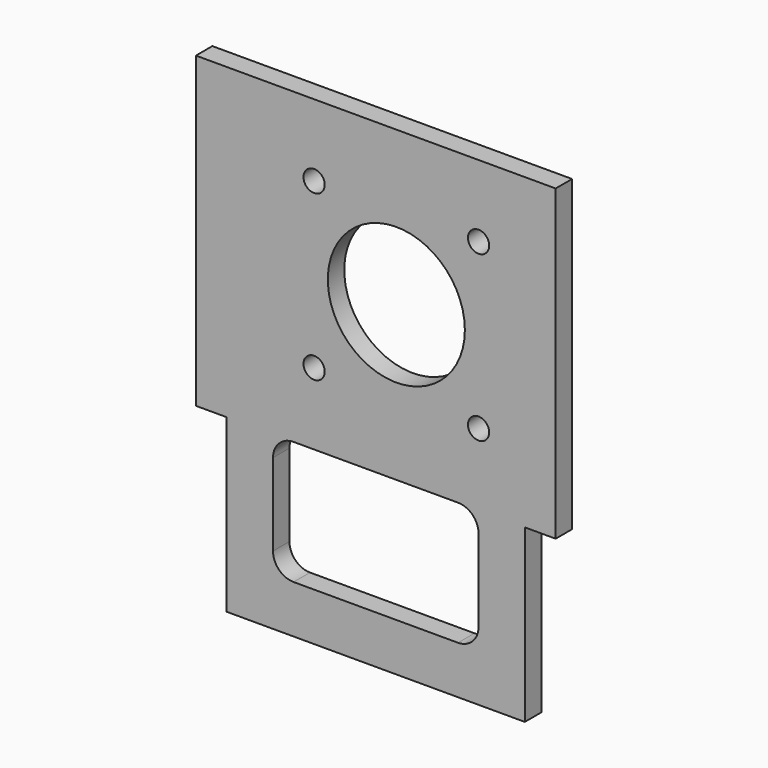
from build123d import *

# Parameters (mm, degrees)
F0_W     = 30
F0_H     = 18
F1_DEPTH = 3
F2_R     = 3
F3_R     = 1.55
F3_R_2   = 10
F4_DEPTH = 3.001


with BuildPart() as f1:
    # F0 (on Front) → F1 (new body)
    with BuildSketch(Plane.XZ):
        Polygon((-21.75, -10), (-21.75, -35), (21.75, -35), (21.75, -10), (26.25, -10), (26.25, 35), (-26.25, 35), (-26.25, -10), align=None)
        with Locations((0, -19)):
            Rectangle(F0_W, F0_H, mode=Mode.SUBTRACT)
    extrude(amount=F1_DEPTH)

    # F2
    f2_edges = [f1.edges().sort_by_distance(p)[0] for p in [
        (-15, -1.5, -28),
        (15, -1.5, -28),
        (15, -1.5, -10),
        (-15, -1.5, -10),
    ]]
    fillet(f2_edges, radius=F2_R)

    # F3 (on face) → F4 (cut, through all)
    with BuildSketch(Plane.XZ.offset(3)):
        with Locations((-9, 24.5)):
            Circle(F3_R)
        with Locations((15, 24.5)):
            Circle(F3_R)
        with Locations((-9, 0.5)):
            Circle(F3_R)
        with Locations((15, 0.5)):
            Circle(F3_R)
        with Locations((3, 12.5)):
            Circle(F3_R_2)
    extrude(amount=-F4_DEPTH, mode=Mode.SUBTRACT)


solid = f1.part
